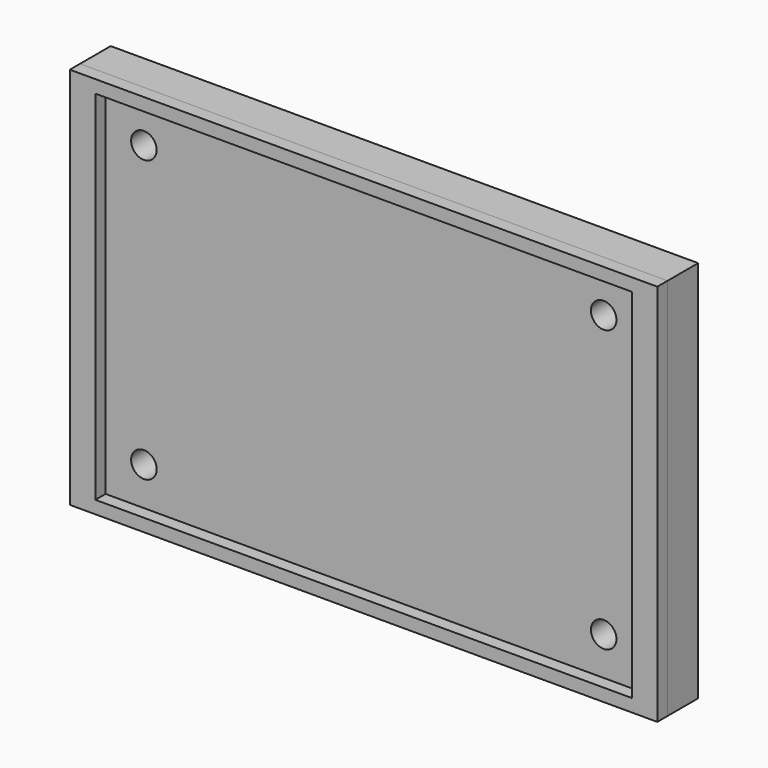
from build123d import *

# Parameters (mm, degrees)
F0_W     = 230
F0_H     = 150
F0_W_2   = 210
F0_H_2   = 140
F1_DEPTH = 5
F0_R     = 5
F2_DEPTH = 15
F3_DEPTH = 14
F4_R     = 3


with BuildPart() as f1:
    # F0 (on Front) → F1 (new body)
    with BuildSketch(Plane.XZ):
        Rectangle(F0_W, F0_H)
        Rectangle(F0_W_2, F0_H_2, mode=Mode.SUBTRACT)
    extrude(amount=F1_DEPTH)


with BuildPart() as f2:
    # F0 (on Front) → F2 (new body)
    with BuildSketch(Plane.XZ):
        Rectangle(F0_W, F0_H)
        Rectangle(F0_W_2, F0_H_2, mode=Mode.SUBTRACT)
        Rectangle(F0_W_2, F0_H_2)
        with Locations((-90, -55)):
            Circle(F0_R, mode=Mode.SUBTRACT)
        with Locations((90, -55)):
            Circle(F0_R, mode=Mode.SUBTRACT)
        with Locations((-90, 55)):
            Circle(F0_R, mode=Mode.SUBTRACT)
        with Locations((90, 55)):
            Circle(F0_R, mode=Mode.SUBTRACT)
        with Locations((-90, 55)):
            Circle(F0_R)
        with Locations((-90, -55)):
            Circle(F0_R)
        with Locations((90, -55)):
            Circle(F0_R)
        with Locations((90, 55)):
            Circle(F0_R)
    extrude(amount=-F2_DEPTH)

    # F0 (on Front) → F3 (cut)
    with BuildSketch(Plane.XZ):
        with Locations((-90, 55)):
            Circle(F0_R)
        with Locations((-90, -55)):
            Circle(F0_R)
        with Locations((90, -55)):
            Circle(F0_R)
        with Locations((90, 55)):
            Circle(F0_R)
    extrude(amount=-F3_DEPTH, mode=Mode.SUBTRACT)

    # F4
    f4_edges = [f2.edges().sort_by_distance(p)[0] for p in [
        (-95, 14, 55),
        (-95, 14, -55),
        (85, 14, -55),
        (85, 14, 55),
    ]]
    fillet(f4_edges, radius=F4_R)


solid = Compound([f1.part, f2.part])
